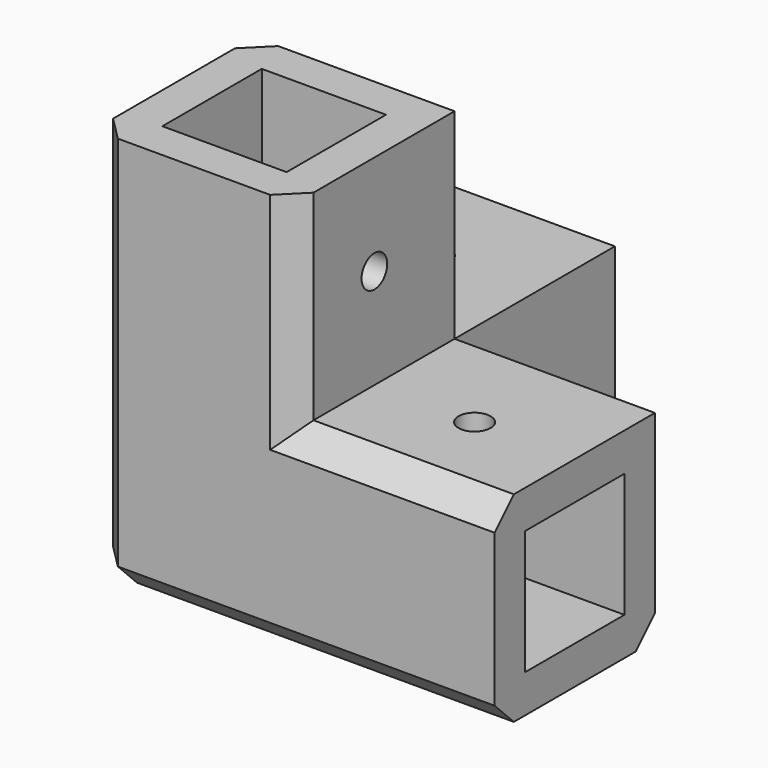
from build123d import *

# Parameters (mm, degrees)
F0_W     = 25
F0_H     = 25
F0_R     = 2
F0_W_2   = 15.5
F0_H_2   = 15.5
F1_DEPTH = 25
F2_W     = 15.5
F2_H     = 15.5
F3_DEPTH = 25
F4_W     = 15.5
F4_H     = 15.5
F5_DEPTH = 25
F6_DEPTH = 25
F8_SIZE  = 3
F7_R     = 2
F9_DEPTH = 25


with BuildPart() as f1:
    # F0 (on Top) → F1 (new body)
    with BuildSketch(Plane.XY):
        with Locations((-47.5, 37.5)):
            Rectangle(F0_W, F0_H)
        with Locations((-47.5, 37.5)):
            Circle(F0_R, mode=Mode.SUBTRACT)
        with Locations((-22.5, 12.5)):
            Rectangle(F0_W, F0_H)
        with Locations((-22.5, 12.5)):
            Circle(F0_R, mode=Mode.SUBTRACT)
        with Locations((-47.5, 12.5)):
            Rectangle(F0_W, F0_H)
        with Locations((-47.5, 12.5)):
            Rectangle(F0_W_2, F0_H_2, mode=Mode.SUBTRACT)
        with Locations((-47.5, 12.5)):
            Rectangle(F0_W_2, F0_H_2)
    extrude(amount=-F1_DEPTH)

    # F2 (on face) → F3 (cut)
    with BuildSketch(Plane.YZ.offset(-10)):
        with Locations((12.5, -12.5)):
            Rectangle(F2_W, F2_H)
    extrude(amount=-F3_DEPTH, mode=Mode.SUBTRACT)

    # F4 (on face) → F5 (cut)
    with BuildSketch(Plane(origin=(0, 50, 0), x_dir=(-1, 0, 0), z_dir=(0, 1, 0))):
        with Locations((47.5, -12.5)):
            Rectangle(F4_W, F4_H)
    extrude(amount=-F5_DEPTH, mode=Mode.SUBTRACT)

    # F0 (on Top) → F6 (join)
    with BuildSketch(Plane.XY):
        with Locations((-47.5, 12.5)):
            Rectangle(F0_W, F0_H)
        with Locations((-47.5, 12.5)):
            Rectangle(F0_W_2, F0_H_2, mode=Mode.SUBTRACT)
    extrude(amount=F6_DEPTH)

    # F8
    f8_edges = [f1.edges().sort_by_distance(p)[0] for p in [
        (-60, 0, 0),
        (-35, 0, -25),
        (-60, 25, -25),
        (-35, 0, 12.5),
        (-22.5, 0, 0),
        (-35, 37.5, -25),
        (-22.5, 25, -25),
        (-60, 37.5, 0),
        (-60, 25, 12.5),
    ]]
    chamfer(f8_edges, length=F8_SIZE)

    # F7 (on face) → F9 (cut)
    with BuildSketch(Plane.YZ.offset(-35)):
        with Locations((12.5, 12.5)):
            Circle(F7_R)
    extrude(amount=-F9_DEPTH, mode=Mode.SUBTRACT)


solid = f1.part
